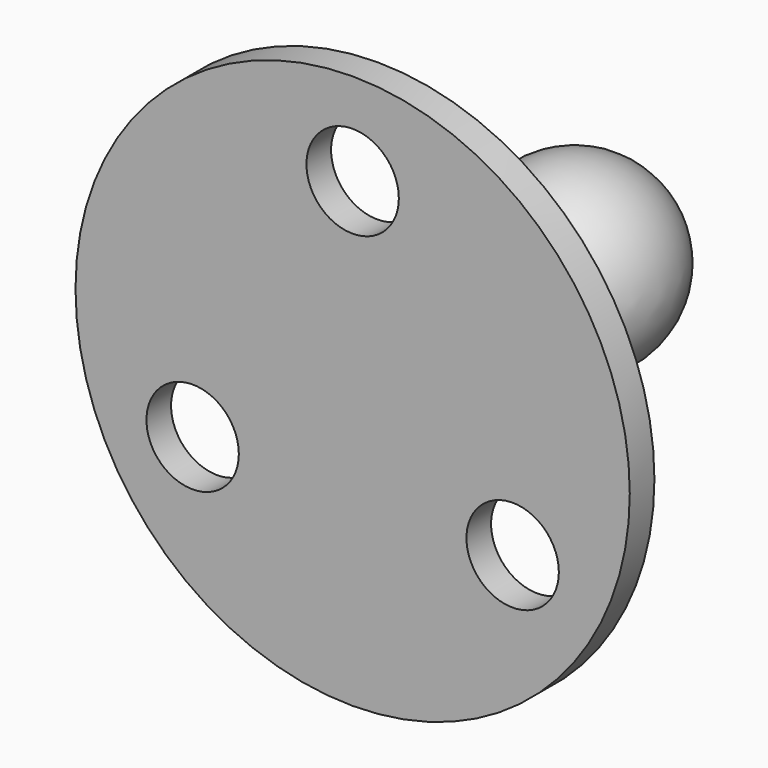
from build123d import *

# Parameters (mm, degrees)
F0_R     = 14.2875
F0_R_2   = 2.38125
F1_DEPTH = 1.5875


with BuildPart() as f1:
    # F0 (on Front) → F1 (new body)
    with BuildSketch(Plane.XZ):
        Circle(F0_R)
        with Locations((-8.248891971, -4.7625)):
            Circle(F0_R_2, mode=Mode.SUBTRACT)
        with Locations((8.248891971, -4.7625)):
            Circle(F0_R_2, mode=Mode.SUBTRACT)
        with Locations((0, 9.525)):
            Circle(F0_R_2, mode=Mode.SUBTRACT)
    extrude(amount=F1_DEPTH)

    # F2 (on Top) → F3 (revolve)
    with BuildSketch(Plane.XY):
        with BuildLine():
            Line((0, 0), (3.175, 0))
            Line((3.175, 0), (3.175, 9.1502420857))
            ThreePointArc((3.175, 9.1502420857), (1.6993652025, 8.2510041404), (0, 7.9375))
            Line((0, 7.9375), (0, 0))
        make_face()
        with BuildLine():
            ThreePointArc((0, 7.9375), (1.6993652025, 8.2510041404), (3.175, 9.1502420857))
            ThreePointArc((3.175, 9.1502420857), (4.4489958596, 14.3993652025), (0, 17.4625))
            Line((0, 17.4625), (0, 12.7))
            Line((0, 12.7), (0, 7.9375))
        make_face()
    revolve(axis=Axis((0, 6.35, 0), (0, -1, 0)))


solid = f1.part
